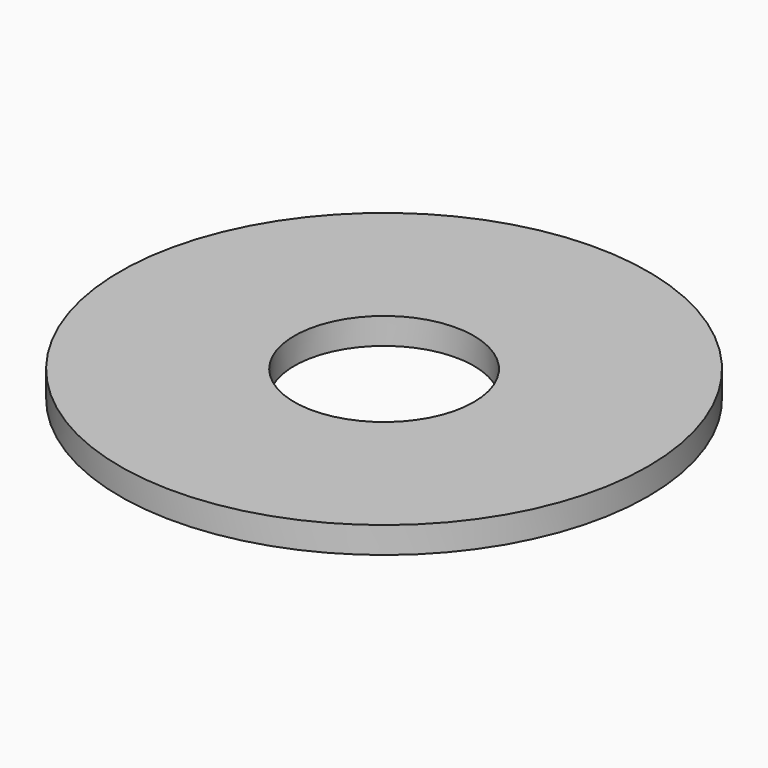
from build123d import *

# Parameters (mm, degrees)
CYLINDER110_R     = 1.7
CYLINDER110_DEPTH = 0.5
CYLINDER111_R     = 5
CYLINDER111_DEPTH = 0.5


with BuildPart() as obj1:
    # Cylinder110 → Cylinder110 (new body)
    with BuildSketch(Plane(origin=(0, -44, 13.5), x_dir=(1, 0, 0), z_dir=(0, 0, 1))):
        Circle(CYLINDER110_R)
    extrude(amount=CYLINDER110_DEPTH)


with BuildPart() as bearingholdertopwasher:
    # Cylinder111 → Cylinder111 (new body)
    with BuildSketch(Plane(origin=(0, -44, 13.5), x_dir=(1, 0, 0), z_dir=(0, 0, 1))):
        Circle(CYLINDER111_R)
    extrude(amount=CYLINDER111_DEPTH)

    # Cut055: cut obj1
    add(obj1.part, mode=Mode.SUBTRACT)


solid = bearingholdertopwasher.part
